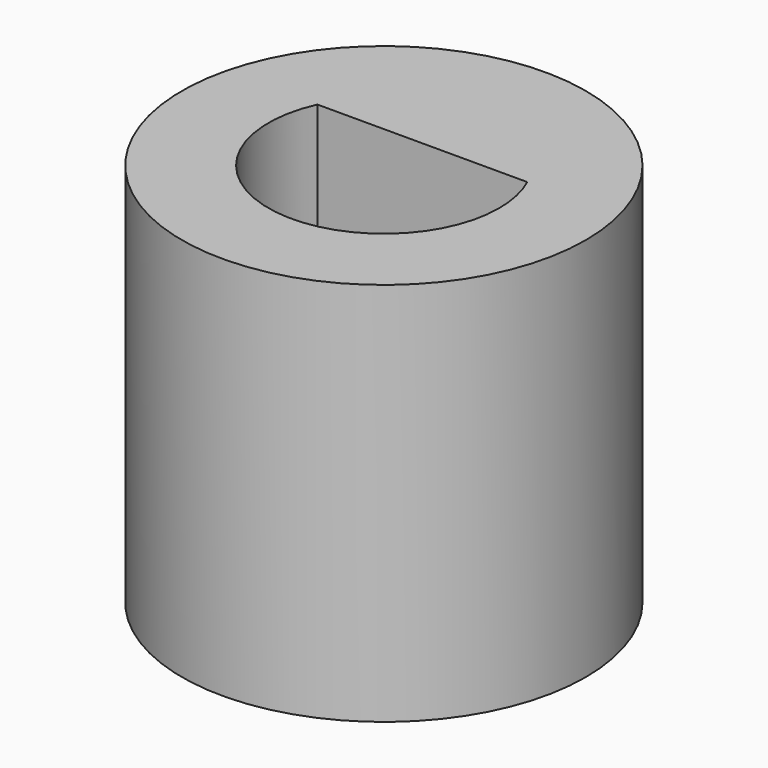
from build123d import *

# Parameters (mm, degrees)
F0_R     = 5.25
F1_DEPTH = 10


with BuildPart() as f1:
    # F0 (on Top) → F1 (new body)
    with BuildSketch(Plane.XY):
        Circle(F0_R)
        with BuildLine():
            ThreePointArc((2.727178, 1.25), (2.931001, 0.639713), (3, 0))
            ThreePointArc((3, 0), (-0.639713, -2.931001), (-2.727178, 1.25))
            ThreePointArc((-2.727178, 1.25), (0, 3), (2.727178, 1.25))
        make_face(mode=Mode.SUBTRACT)
        with BuildLine():
            Line((-2.727178, 1.25), (2.727178, 1.25))
            ThreePointArc((2.727178, 1.25), (0, 3), (-2.727178, 1.25))
        make_face()
    extrude(amount=F1_DEPTH)


solid = f1.part
